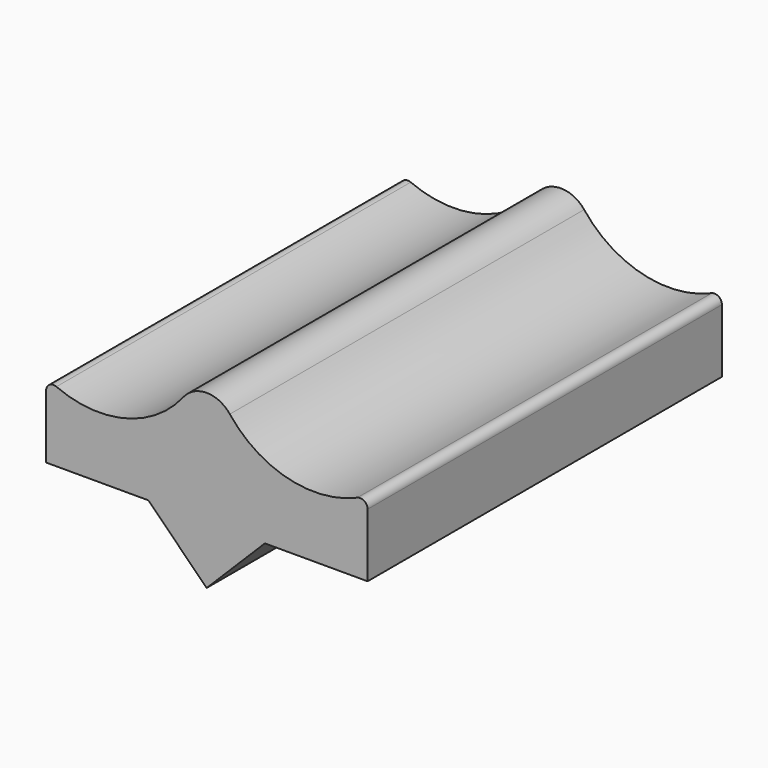
from build123d import *

# Parameters (mm, degrees)
PAD005_DEPTH    = 30
PAD006_DEPTH    = 30
SKETCH043_R     = 0.9
POCKET016_DEPTH = 5


with BuildPart() as part:
    # Sketch037 → Pad005 (new body)
    with BuildSketch(Plane.XZ.offset(-45)):
        with BuildLine():
            ThreePointArc((-10.178404, -6.708561), (-5.503497, -7.075491), (-1.569892, -4.522816))
            ThreePointArc((1.569892, -4.522816), (0, -3.761944), (-1.569892, -4.522816))
            ThreePointArc((1.569892, -4.522816), (5.517054, -7.07892), (10.204085, -6.697484))
            ThreePointArc((10.902995, -7.156215), (10.677354, -6.738211), (10.204085, -6.697484))
            Line((10.902995, -11.456215), (10.902995, -7.156215))
            Line((10.902995, -11.456215), (-10.875555, -11.456215))
            Line((-10.875555, -11.456215), (-10.875555, -7.168051))
            ThreePointArc((-10.178404, -6.708561), (-10.650714, -6.750574), (-10.875555, -7.168051))
        make_face()
    extrude(amount=PAD005_DEPTH)

    # Sketch042 → Pad006 (join)
    with BuildSketch(Plane.XZ.offset(-45)):
        Polygon((-4, -11.4), (0, -15.4), (4, -11.4), align=None)
    extrude(amount=PAD006_DEPTH)

    # Sketch043 → Pocket016 (cut)
    with BuildSketch(Plane.XY.offset(-9)):
        with Locations((-5.5, 30)):
            Circle(SKETCH043_R)
        with Locations((-5.5, -30)):
            Circle(SKETCH043_R)
        with Locations((5.5, 30)):
            Circle(SKETCH043_R)
        with Locations((5.5, -30)):
            Circle(SKETCH043_R)
    extrude(amount=-POCKET016_DEPTH, mode=Mode.SUBTRACT)


solid = part.part
